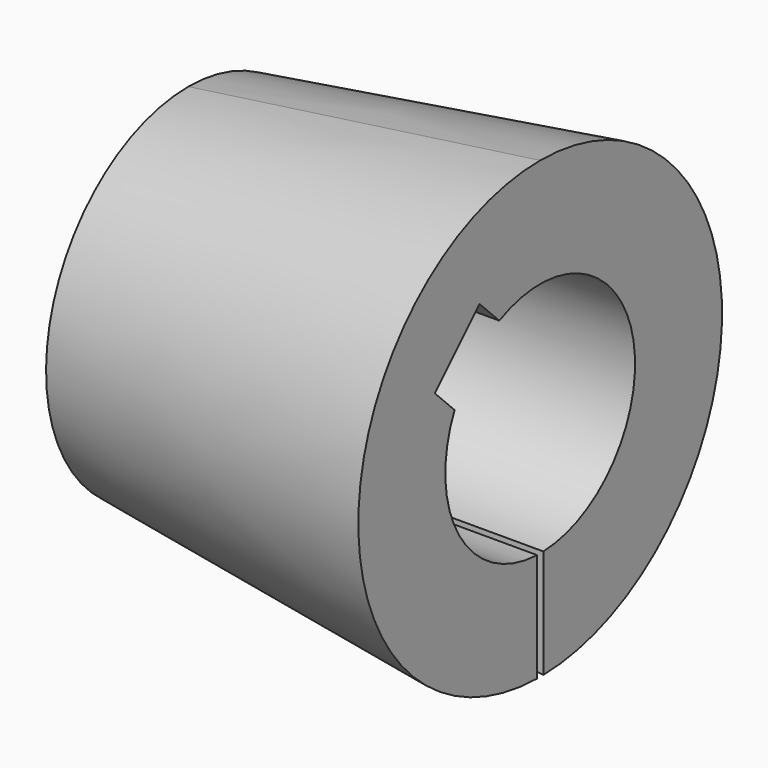
from build123d import *

# Parameters (mm, degrees)
F2_W     = 2
F2_H     = 35.500896
F3_DEPTH = 89.001
F6_DEPTH = 89.001


with BuildPart() as f1:
    # F0 (on Front) → F1 (revolve)
    with BuildSketch(Plane.XZ):
        Polygon((-44.5, 45), (-44.5, 30), (44.5, 30), (44.5, 57.508134), align=None)
    revolve(axis=Axis((4.300002, 0, 0), (1, 0, 0)))

    # F2 (on face) → F3 (cut, through all)
    with BuildSketch(Plane.YZ.offset(44.5)):
        with Locations((0, -46.971067)):
            Rectangle(F2_W, F2_H)
    extrude(amount=-F3_DEPTH, mode=Mode.SUBTRACT)

    # F5 (on face) → F6 (cut, through all)
    with BuildSketch(Plane.YZ.offset(44.5)):
        Polygon((-9.3801, 23.522235), (-19.162689, 33.304824), (-33.304824, 19.162689), (-23.522235, 9.3801), align=None)
    extrude(amount=-F6_DEPTH, mode=Mode.SUBTRACT)


solid = f1.part
